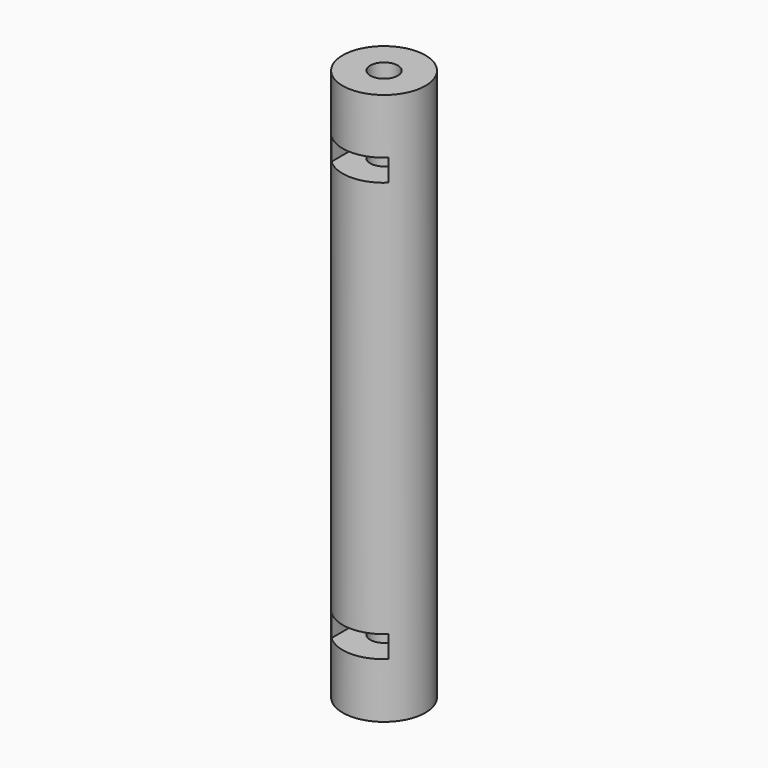
from build123d import *

# Parameters (mm, degrees)
BOX011_W          = 6.2
BOX011_H          = 10
BOX011_DEPTH      = 2.4
BOX010_W          = 6.2
BOX010_H          = 10
BOX010_DEPTH      = 2.4
CYLINDER007_R     = 1.5
CYLINDER007_DEPTH = 60
CYLINDER006_R     = 4.5
CYLINDER006_DEPTH = 60


with BuildPart() as nut2:
    # Box011 → Box011 (new body)
    with BuildSketch(Plane(origin=(-3.1, -5, 51.6), x_dir=(1, 0, 0), z_dir=(0, 0, 1))):
        with Locations((3.1, 5)):
            Rectangle(BOX011_W, BOX011_H)
    extrude(amount=BOX011_DEPTH)


with BuildPart() as nut1:
    # Box010 → Box010 (new body)
    with BuildSketch(Plane(origin=(-3.1, -5, 6), x_dir=(1, 0, 0), z_dir=(0, 0, 1))):
        with Locations((3.1, 5)):
            Rectangle(BOX010_W, BOX010_H)
    extrude(amount=BOX010_DEPTH)


with BuildPart() as columnhole:
    # Cylinder007 → Cylinder007 (new body)
    with BuildSketch(Plane.XY):
        Circle(CYLINDER007_R)
    extrude(amount=CYLINDER007_DEPTH)


with BuildPart() as column:
    # Cylinder006 → Cylinder006 (new body)
    with BuildSketch(Plane.XY):
        Circle(CYLINDER006_R)
    extrude(amount=CYLINDER006_DEPTH)

    # Cut010: cut ColumnHole
    add(columnhole.part, mode=Mode.SUBTRACT)

    # Cut011: cut Nut1
    add(nut1.part, mode=Mode.SUBTRACT)

    # Cut012: cut Nut2
    add(nut2.part, mode=Mode.SUBTRACT)


solid = column.part
